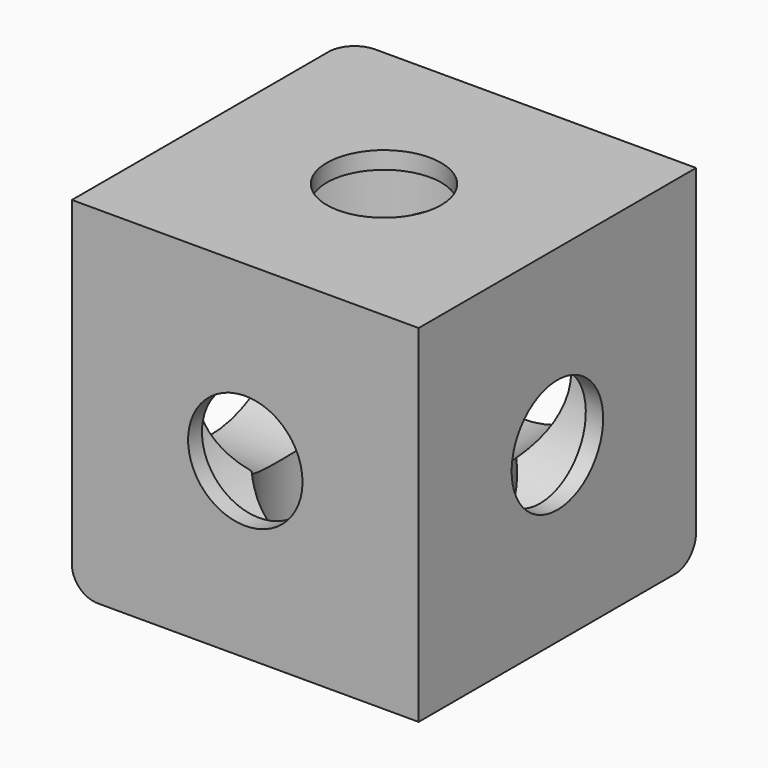
from build123d import *

# Parameters (mm, degrees)
CYLINDER_R        = 3.3
CYLINDER_DEPTH    = 20
CYLINDER001_R     = 3.3
CYLINDER001_DEPTH = 20
CYLINDER002_R     = 3.3
CYLINDER002_DEPTH = 20
CYLINDER003_R     = 6
CYLINDER003_DEPTH = 19
CYLINDER004_R     = 6
CYLINDER004_DEPTH = 19
CYLINDER005_R     = 6
CYLINDER005_DEPTH = 19
BOX_W             = 20
BOX_H             = 20
BOX_DEPTH         = 20
FILLET_R          = 1.5


with BuildPart() as cylinder:
    # Cylinder → Cylinder (new body)
    with BuildSketch(Plane(origin=(10, 10, 0), x_dir=(1, 0, 0), z_dir=(0, 0, 1))):
        Circle(CYLINDER_R)
    extrude(amount=CYLINDER_DEPTH)


with BuildPart() as cylinder001:
    # Cylinder001 → Cylinder001 (new body)
    with BuildSketch(Plane(origin=(10, 20, 10), x_dir=(1, 0, 0), z_dir=(0, -1, 0))):
        Circle(CYLINDER001_R)
    extrude(amount=CYLINDER001_DEPTH)


with BuildPart() as cylinder002:
    # Cylinder002 → Cylinder002 (new body)
    with BuildSketch(Plane(origin=(0, 10, 10), x_dir=(0, 0, -1), z_dir=(1, 0, 0))):
        Circle(CYLINDER002_R)
    extrude(amount=CYLINDER002_DEPTH)


with BuildPart() as cylinder003:
    # Cylinder003 → Cylinder003 (new body)
    with BuildSketch(Plane(origin=(0, 10, 10), x_dir=(0, 0, -1), z_dir=(1, 0, 0))):
        Circle(CYLINDER003_R)
    extrude(amount=CYLINDER003_DEPTH)


with BuildPart() as cylinder004:
    # Cylinder004 → Cylinder004 (new body)
    with BuildSketch(Plane(origin=(10, 10, 0), x_dir=(1, 0, 0), z_dir=(0, 0, 1))):
        Circle(CYLINDER004_R)
    extrude(amount=CYLINDER004_DEPTH)


with BuildPart() as fusion:
    # Cylinder005 → Cylinder005 (new body)
    with BuildSketch(Plane(origin=(10, 20, 10), x_dir=(1, 0, 0), z_dir=(0, -1, 0))):
        Circle(CYLINDER005_R)
    extrude(amount=CYLINDER005_DEPTH)

    # Fusion: union Cylinder, Cylinder001, Cylinder002, Cylinder003, Cylinder004
    add(cylinder.part)
    add(cylinder001.part)
    add(cylinder002.part)
    add(cylinder003.part)
    add(cylinder004.part)


with BuildPart() as f_20x20connectorcube:
    # Box → Box (new body)
    with BuildSketch(Plane.XY):
        with Locations((10, 10)):
            Rectangle(BOX_W, BOX_H)
    extrude(amount=BOX_DEPTH)

    # Cut: cut Fusion
    add(fusion.part, mode=Mode.SUBTRACT)

    # Fillet
    fillet_edges = [f_20x20connectorcube.edges().sort_by_distance(p)[0] for p in [
        (0, 10, 0),
        (0, 20, 10),
        (10, 20, 0),
    ]]
    fillet(fillet_edges, radius=FILLET_R)


solid = f_20x20connectorcube.part
